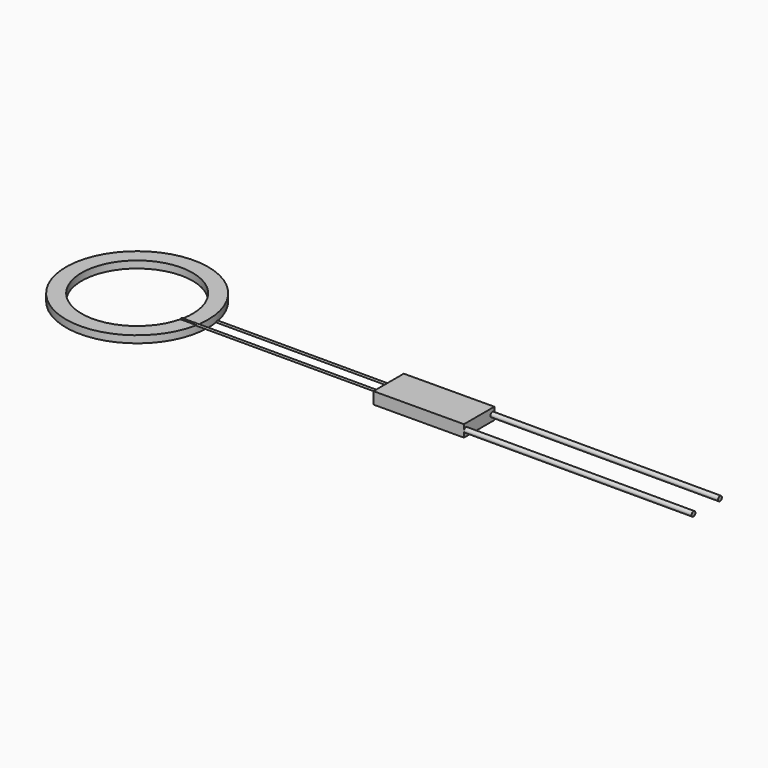
from build123d import *

# Parameters (mm, degrees)
F0_R          = 19.05
F0_R_2        = 14.859
F1_DEPTH      = 1.905
F2_R          = 0.254
F3_DEPTH      = 67.056
F4_DEPTH      = 67.056
F5_DEPTH      = 0.2550001
F5_DEPTH_BACK = 2.1600001
F7_DEPTH      = 2.54
F7_DEPTH_BACK = 0.635
F9_DEPTH      = 60.96
F10_R         = 0.635
F11_DEPTH     = 60.96


with BuildPart() as f1:
    # F0 (on Top) → F1 (new body)
    with BuildSketch(Plane.XY):
        Circle(F0_R)
        Circle(F0_R_2, mode=Mode.SUBTRACT)
    extrude(amount=F1_DEPTH)

    # F2 (on Right) → F3 (join)
    with BuildSketch(Plane.YZ):
        with Locations((-3.302, 1.905)):
            Circle(F2_R)
    extrude(amount=F3_DEPTH)

    # F2 (on Right) → F4 (join)
    with BuildSketch(Plane.YZ):
        with Locations((3.302, 0)):
            Circle(F2_R)
    extrude(amount=F4_DEPTH)

    # F0 (on Top) → F5 (cut, two sides)
    with BuildSketch(Plane.XY) as f5_sk:
        Circle(F0_R_2)
    extrude(amount=-F5_DEPTH, mode=Mode.SUBTRACT)
    extrude(f5_sk.sketch, amount=F5_DEPTH_BACK, mode=Mode.SUBTRACT)


with BuildPart() as f7:
    # F6 (on Top) → F7 (new body, two sides)
    with BuildSketch(Plane.XY) as f7_sk:
        Polygon((91.185625081, 5.588319203), (67.056, 5.4538073018), (67.056, -4.7061926982), (91.185625081, -4.571680797), align=None)
    extrude(amount=F7_DEPTH)
    extrude(f7_sk.sketch, amount=-F7_DEPTH_BACK)


with BuildPart() as f9:
    # F8 (on face) → F9 (new body)
    with BuildSketch(Plane.YZ.offset(91.185625081)):
        with BuildLine():
            ThreePointArc((-4.571680797, 0.9525), (-3.936680797, 0.3175), (-3.301680797, 0.9525))
            ThreePointArc((-3.301680797, 0.9525), (-3.936680797, 1.5875), (-4.571680797, 0.9525))
        make_face()
    extrude(amount=F9_DEPTH)


with BuildPart() as f11:
    # F10 (on face) → F11 (new body)
    with BuildSketch(Plane.YZ.offset(91.185625081)):
        with Locations((4.953319203, 0.9525)):
            Circle(F10_R)
    extrude(amount=F11_DEPTH)


solid = Compound([f1.part, f7.part, f9.part, f11.part])
